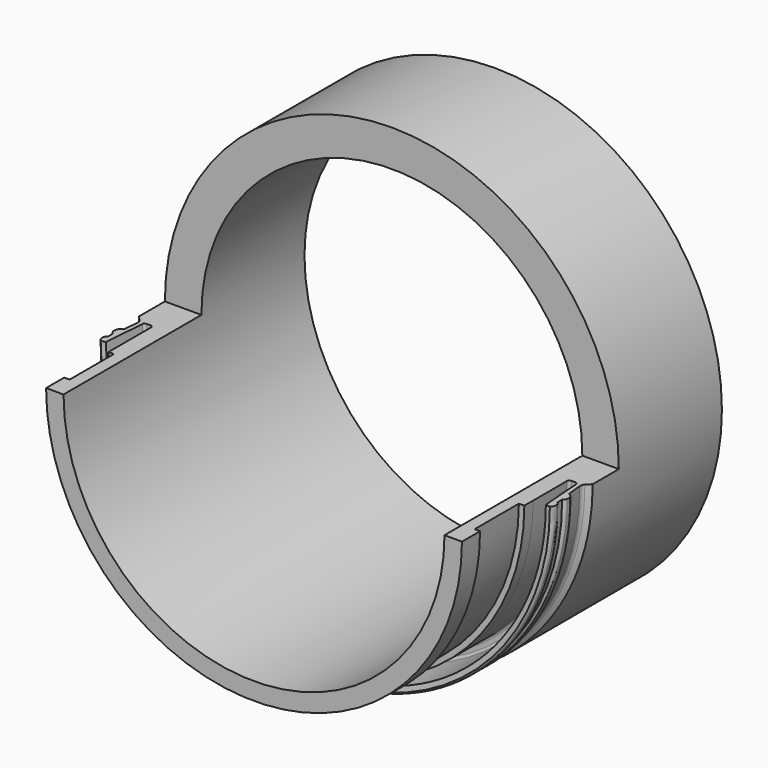
from build123d import *

# Parameters (mm, degrees)
F0_R     = 137.5156
F0_R_2   = 115.4049
F1_DEPTH = 182.4736
F2_R     = 137.5156
F2_R_2   = 125.984
F2_R_3   = 115.4049
F3_DEPTH = 53.975
F9_DEPTH = 104.394


with BuildPart() as f1:
    # F0 (on Front) → F1 (new body)
    with BuildSketch(Plane.XZ):
        Circle(F0_R)
        Circle(F0_R_2, mode=Mode.SUBTRACT)
        Circle(F0_R)
        Circle(F0_R_2, mode=Mode.SUBTRACT)
    extrude(amount=F1_DEPTH)

    # F2 (on face) → F3 (cut)
    with BuildSketch(Plane.XZ.offset(182.4736)):
        Circle(F2_R)
        Circle(F2_R_2, mode=Mode.SUBTRACT)
        Circle(F2_R_3)
    extrude(amount=-F3_DEPTH, mode=Mode.SUBTRACT)

    # F4 (on Right) → F5 (revolve, cut)
    with BuildSketch(Plane.YZ):
        Polygon((-168.7576, 122.682), (-135.2296, 122.682), (-135.2296, 133.6094886065), (-168.7576, 132.9865753651), align=None)
        with BuildLine():
            Line((-128.4986, 133.316402129), (-128.4986, 125.984))
            Line((-128.4986, 125.984), (-102.9716, 125.984))
            ThreePointArc((-102.9716, 125.984), (-101.8939692655, 126.4303692655), (-101.4476, 127.508))
            Line((-101.4476, 127.508), (-101.4476, 129.8777161558))
            ThreePointArc((-101.4476, 129.8777161558), (-101.8544806396, 130.9143551163), (-102.8578629062, 131.3974660936))
            Line((-102.8578629062, 131.3974660936), (-128.4986, 133.316402129))
        make_face()
    revolve(axis=Axis((0, -101.0527542392, 0), (0, -1, 0)), mode=Mode.SUBTRACT)

    # F6 (on Right) → F7 (revolve, cut)
    with BuildSketch(Plane.YZ):
        with BuildLine():
            Line((-122.682, 135.6407920973), (-122.682, 135.636))
            Line((-122.682, 135.636), (-122.6781481839, 135.636))
            ThreePointArc((-122.6781481839, 135.636), (-122.6800731056, 135.6383968415), (-122.682, 135.6407920973))
        make_face()
        with BuildLine():
            ThreePointArc((-122.682, 135.6407920973), (-122.6800731056, 135.6383968415), (-122.6781481839, 135.636))
            Line((-122.6781481839, 135.636), (-119.2276, 135.636))
            ThreePointArc((-119.2276, 135.636), (-117.9106061795, 136.793453809), (-116.2076692458, 137.2108))
            Line((-116.2076692458, 137.2108), (-115.9783383667, 137.2108))
            Line((-115.9783383667, 137.2108), (-115.9783383667, 137.2036531456))
            ThreePointArc((-115.9783383667, 137.2036531456), (-113.8739297972, 136.3770365971), (-112.649, 134.4766741744))
            Line((-112.649, 134.4766741744), (-103.1517064694, 133.4784684008))
            ThreePointArc((-103.1517064694, 133.4784684008), (-101.7043232345, 133.6497774957), (-100.4716868922, 134.4275131078))
            Line((-100.4716868922, 134.4275131078), (-97.3836, 137.5156))
            Line((-97.3836, 137.5156), (-97.3836, 143.5321867466))
            Line((-97.3836, 143.5321867466), (-140.0584578514, 144.7910815477))
            Line((-140.0584578514, 144.7910815477), (-134.244799614, 133.6383521557))
            Line((-134.244799614, 133.6383521557), (-127.7665942907, 130.9942603111))
            Line((-127.7665942907, 130.9942603111), (-128.5024518161, 135.636))
            ThreePointArc((-128.5024518161, 135.636), (-125.593374113, 137.0329987345), (-122.682, 135.6407920973))
        make_face()
        with BuildLine():
            Line((-115.9783383667, 137.2108), (-116.2076692458, 137.2108))
            ThreePointArc((-116.2076692458, 137.2108), (-116.0929481387, 137.2090128528), (-115.9783383667, 137.2036531456))
            Line((-115.9783383667, 137.2036531456), (-115.9783383667, 137.2108))
        make_face()
    revolve(axis=Axis((0, -112.3327567475, -0.4535788612), (0, -1, 0)), mode=Mode.SUBTRACT)

    # F8 (on face) → F9 (cut)
    with BuildSketch(Plane.XZ.offset(182.4736)):
        Polygon((-171.1734831333, 0), (0, 0), (165.0799363852, 0), (114.6696209908, 125.1948475838), (36.5613289177, 149.5690643787), (-42.6548793912, 156.770542264), (-131.8423599005, 117.9933771491), (-156.2165766954, 70.9068179131), (-171.1734831333, 23.820258677), align=None)
    extrude(amount=-F9_DEPTH, mode=Mode.SUBTRACT)


solid = f1.part
